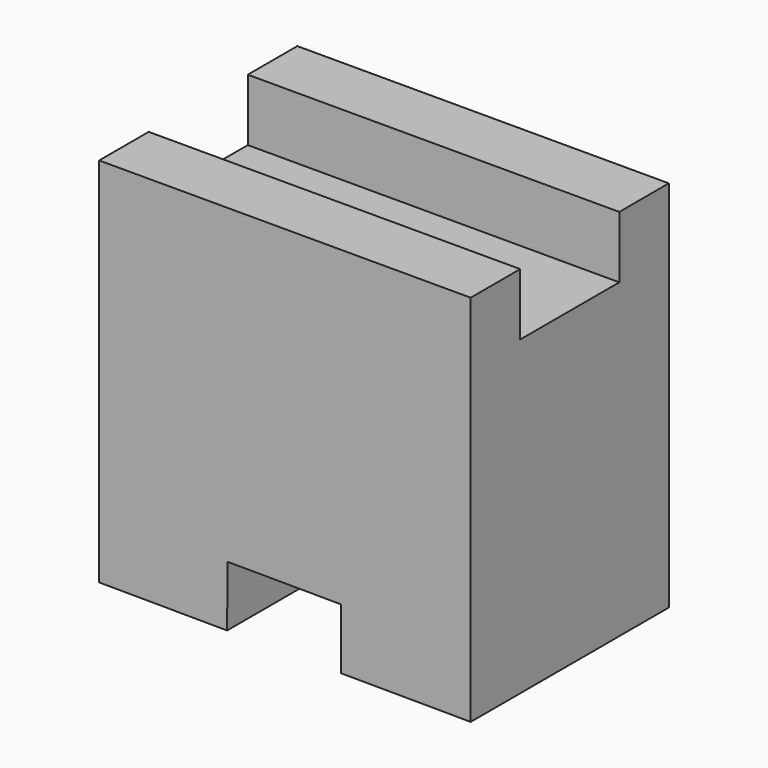
from build123d import *

# Parameters (mm, degrees)
F1_DEPTH = 25.4
F3_DEPTH = 25.4
F4_W     = 12.7
F4_H     = 6.3569043029
F5_DEPTH = 38.1


with BuildPart() as f1:
    # F0 (on Front) → F1 (new body)
    with BuildSketch(Plane.XZ):
        Polygon((-22.4366684005, 65.2284603763), (-60.5366684005, 65.2284603763), (-60.5366684005, 27.1284603763), (-22.4366684005, 26.9258023975), align=None)
    extrude(amount=F1_DEPTH)

    # F2 (on face) → F3 (cut)
    with BuildSketch(Plane.XZ.offset(25.4)):
        Polygon((-47.3802936689, 33.2767914322), (-47.4133685962, 27.0586561397), (-35.7620950777, 26.9966817686), (-35.7620950777, 33.2149929902), align=None)
    extrude(amount=-F3_DEPTH, mode=Mode.SUBTRACT)

    # F4 (on face) → F5 (cut)
    with BuildSketch(Plane.YZ.offset(-22.4366684005)):
        with Locations((-12.7, 62.0500082249)):
            Rectangle(F4_W, F4_H)
    extrude(amount=-F5_DEPTH, mode=Mode.SUBTRACT)


solid = f1.part
